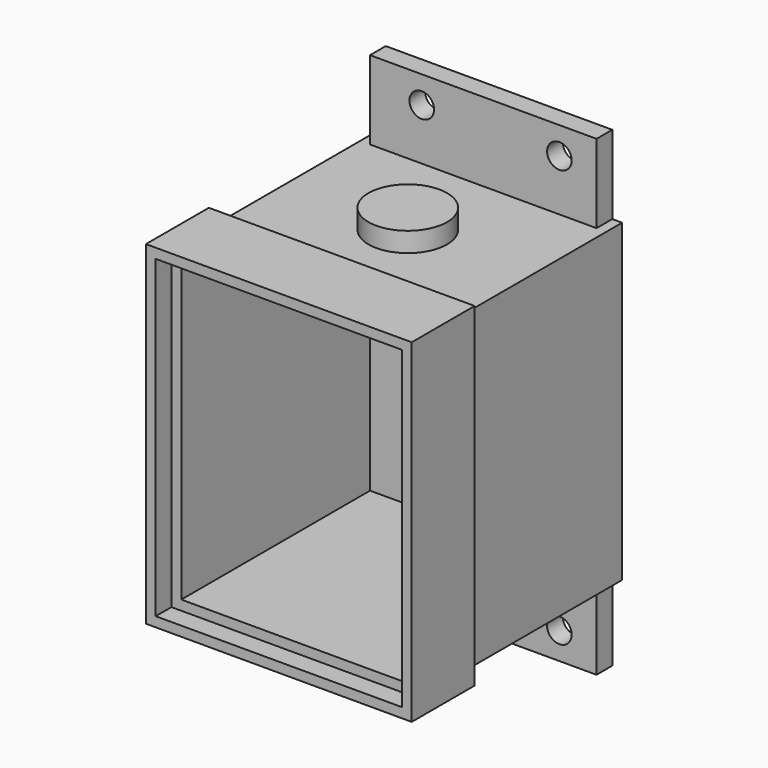
from build123d import *

# Parameters (mm, degrees)
F0_W      = 79.502
F0_H      = 101.6
F1_DEPTH  = 88.9
F2_W      = 85.852
F2_H      = 107.95
F3_DEPTH  = 25.4
F4_W      = 73.152
F4_H      = 95.25
F5_DEPTH  = 85.725
F6_W      = 73.152
F6_H      = 152.4
F7_DEPTH  = 6.35
F8_R      = 3.96875
F9_DEPTH  = 6.351
F10_W     = 79.502
F10_H     = 101.6
F10_W_2   = 73.152
F10_H_2   = 95.25
F11_DEPTH = 6.35
F12_R     = 12.7
F13_DEPTH = 6.35
F14_R     = 12.7
F15_DEPTH = 6.35


with BuildPart() as f1:
    # F0 (on Front) → F1 (new body)
    with BuildSketch(Plane.XZ):
        Rectangle(F0_W, F0_H)
    extrude(amount=F1_DEPTH)

    # F2 (on face) → F3 (join)
    with BuildSketch(Plane.XZ.offset(88.9)):
        Rectangle(F2_W, F2_H)
    extrude(amount=-F3_DEPTH)

    # F4 (on face) → F5 (cut)
    with BuildSketch(Plane.XZ.offset(88.9)):
        Rectangle(F4_W, F4_H)
    extrude(amount=-F5_DEPTH, mode=Mode.SUBTRACT)

    # F6 (on face) → F7 (join)
    with BuildSketch(Plane(origin=(0, 0, 0), x_dir=(-1, 0, 0), z_dir=(0, 1, 0))):
        Rectangle(F6_W, F6_H)
    extrude(amount=-F7_DEPTH)

    # F8 (on face) → F9 (cut, through all)
    with BuildSketch(Plane.XZ.offset(6.35)):
        with Locations((-19.8755, 67.437)):
            Circle(F8_R)
        with Locations((24.5745, 67.437)):
            Circle(F8_R)
        with Locations((-19.8755, -67.437)):
            Circle(F8_R)
        with Locations((24.5745, -67.437)):
            Circle(F8_R)
    extrude(amount=-F9_DEPTH, mode=Mode.SUBTRACT)

    # F10 (on face) → F11 (cut)
    with BuildSketch(Plane.XZ.offset(88.9)):
        Rectangle(F10_W, F10_H)
        Rectangle(F10_W_2, F10_H_2, mode=Mode.SUBTRACT)
    extrude(amount=-F11_DEPTH, mode=Mode.SUBTRACT)

    # F12 (on face) → F13 (join)
    with BuildSketch(Plane.XY.offset(50.8)):
        with Locations((0, -36.83)):
            Circle(F12_R)
    extrude(amount=F13_DEPTH)

    # F14 (on face) → F15 (join)
    with BuildSketch(Plane(origin=(0, 0, -50.8), x_dir=(1, 0, 0), z_dir=(0, 0, -1))):
        with Locations((0, 36.83)):
            Circle(F14_R)
    extrude(amount=F15_DEPTH)


solid = f1.part
